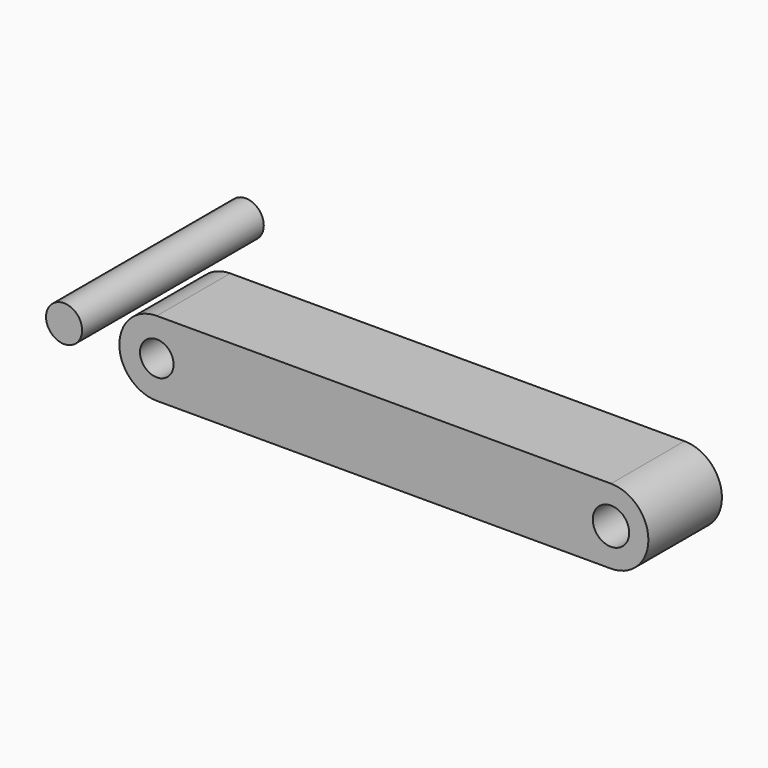
from build123d import *

# Parameters (mm, degrees)
F0_R     = 1.876137
F0_R_2   = 2.036356
F1_DEPTH = 10.28224
F2_R     = 2.016959
F3_DEPTH = 25.4


with BuildPart() as f1:
    # F0 (on Front) → F1 (new body)
    with BuildSketch(Plane.XZ):
        with BuildLine():
            Line((-11.966524, 44.118915), (-62.766524, 44.118915))
            ThreePointArc((-62.766524, 44.118915), (-66.95175, 39.933689), (-62.766524, 35.748463))
            Line((-62.766524, 35.748463), (-11.966524, 35.748463))
            ThreePointArc((-11.966524, 35.748463), (-7.781297, 39.933689), (-11.966524, 44.118915))
        make_face()
        with Locations((-62.766524, 39.933689)):
            Circle(F0_R, mode=Mode.SUBTRACT)
        with Locations((-11.966524, 39.933689)):
            Circle(F0_R_2, mode=Mode.SUBTRACT)
    extrude(amount=F1_DEPTH)


with BuildPart() as f3:
    # F2 (on Front) → F3 (new body)
    with BuildSketch(Plane.XZ):
        with Locations((-61.041497, 50.059736)):
            Circle(F2_R)
    extrude(amount=F3_DEPTH)


solid = Compound([f1.part, f3.part])
